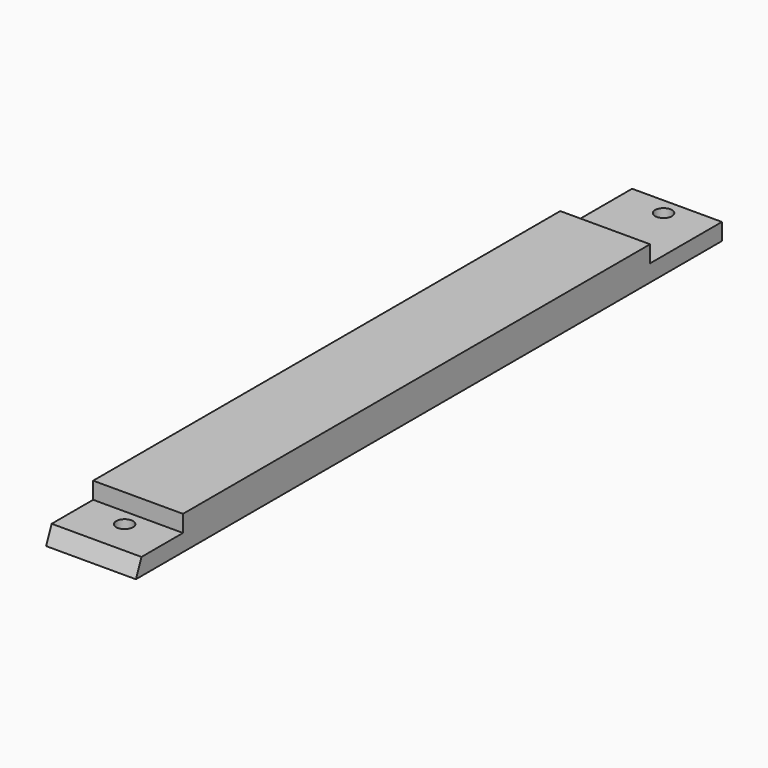
from build123d import *

# Parameters (mm, degrees)
F1_DEPTH = 25.4
F2_R     = 4.7625
F3_DEPTH = 25.4


with BuildPart() as f1:
    # F0 (on Right) → F1 (new body, symmetric)
    with BuildSketch(Plane.YZ):
        Polygon((330.2, 9.525), (0, 9.525), (0, 0), (-29.345384, 0), (-33.290768, -9.525), (381, -9.525), (381, 0), (330.2, 0), align=None)
    extrude(amount=F1_DEPTH, both=True)

    # F2 (on Top) → F3 (cut)
    with BuildSketch(Plane.XY):
        with Locations((0, -9.525)):
            Circle(F2_R)
        with Locations((0, 371.475)):
            Circle(F2_R)
    extrude(amount=-F3_DEPTH, mode=Mode.SUBTRACT)


solid = f1.part
